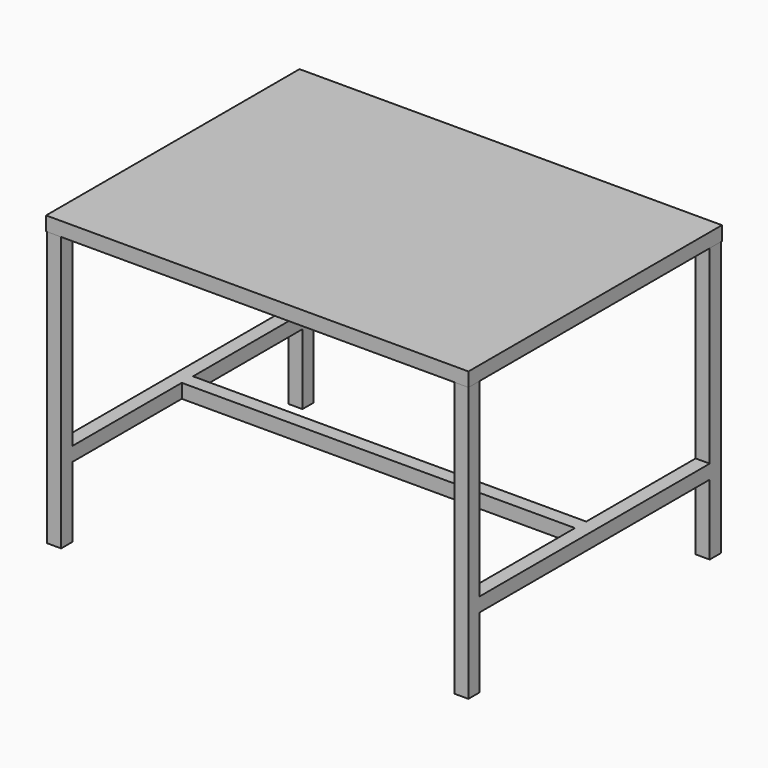
from build123d import *

# Parameters (mm, degrees)
F0_W      = 1200
F0_H      = 900
F1_DEPTH  = 40
F2_T      = -1.5
F3_W      = 40
F3_H      = 40
F4_DEPTH  = 818.5
F5_W      = 817
F5_H      = 40
F6_DEPTH  = 40
F7_W      = 817
F7_H      = 40
F8_DEPTH  = 40
F9_W      = 1117
F9_H      = 40
F10_DEPTH = 40


with BuildPart() as f1:
    # F0 (on Top) → F1 (new body)
    with BuildSketch(Plane.XY):
        Rectangle(F0_W, F0_H)
    extrude(amount=F1_DEPTH)

    # F2
    f2_openings = [f1.faces().sort_by_distance(p)[0] for p in [
        (0, 0, 0),
    ]]
    offset(amount=F2_T, openings=f2_openings)

    # F3 (on face) → F4 (join)
    with BuildSketch(Plane(origin=(0, 0, 38.5), x_dir=(1, 0, 0), z_dir=(0, 0, -1))):
        with Locations((-578.5, 428.5)):
            Rectangle(F3_W, F3_H)
        with Locations((578.5, 428.5)):
            Rectangle(F3_W, F3_H)
        with Locations((578.5, -428.5)):
            Rectangle(F3_W, F3_H)
        with Locations((-578.5, -428.5)):
            Rectangle(F3_W, F3_H)
    extrude(amount=F4_DEPTH)

    # F5 (on face) → F6 (join)
    with BuildSketch(Plane(origin=(-598.5, 0, 0), x_dir=(0, -1, 0), z_dir=(-1, 0, 0))):
        with Locations((0, -560)):
            Rectangle(F5_W, F5_H)
    extrude(amount=-F6_DEPTH)

    # F7 (on face) → F8 (join)
    with BuildSketch(Plane(origin=(558.5, 0, 0), x_dir=(0, -1, 0), z_dir=(-1, 0, 0))):
        with Locations((0, -560)):
            Rectangle(F7_W, F7_H)
    extrude(amount=-F8_DEPTH)

    # F9 (on face) → F10 (join)
    with BuildSketch(Plane(origin=(0, 0, -580), x_dir=(1, 0, 0), z_dir=(0, 0, -1))):
        Rectangle(F9_W, F9_H)
    extrude(amount=-F10_DEPTH)


solid = f1.part
